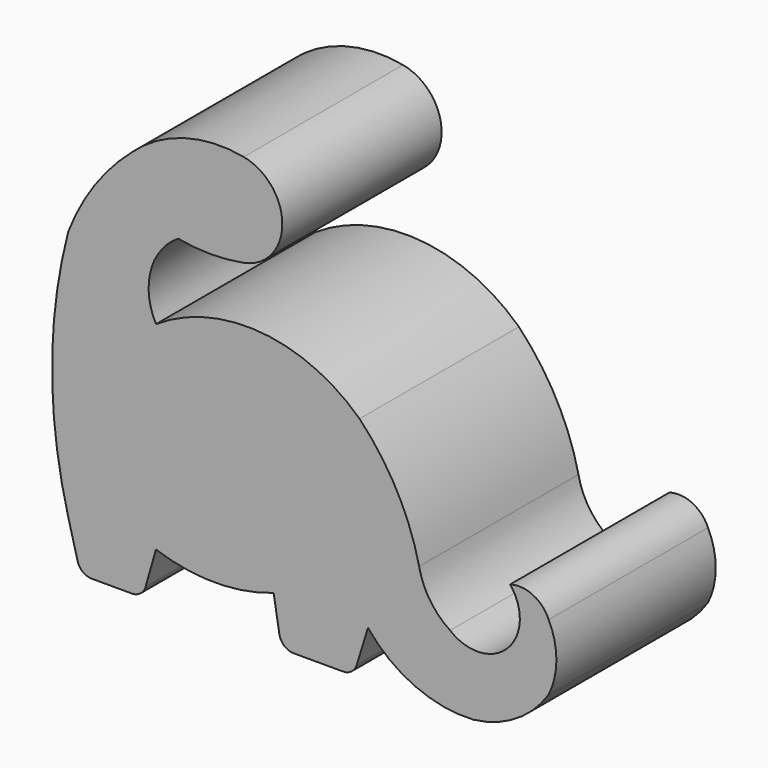
from build123d import *

# Parameters (mm, degrees)
F1_DEPTH = 27.94
F2_R     = 2.032


with BuildPart() as f1:
    # F0 (on Front) → F1 (new body)
    with BuildSketch(Plane.XZ):
        with BuildLine():
            ThreePointArc((37.374314, -11.278337), (36.993944, -19.30783), (28.964451, -19.6882))
            ThreePointArc((28.964451, -19.6882), (26.133187, -16.885717), (24.616137, -13.202169))
            ThreePointArc((24.616137, -13.202169), (21.502887, -4.867324), (16.258154, 2.3198))
            ThreePointArc((16.258154, 2.3198), (2.393106, 8.496354), (-12.306178, 4.712117))
            ThreePointArc((-12.306178, 4.712117), (-13.034985, 11.114911), (-9.191416, 16.287329))
            ThreePointArc((-9.191416, 16.287329), (-4.595708, 15.85712), (0, 16.287329))
            ThreePointArc((0, 16.287329), (5.42121, 22.828334), (0, 29.369339))
            ThreePointArc((0, 29.369339), (-8.338542, 28.986406), (-15.619431, 24.903933))
            ThreePointArc((-15.619431, 24.903933), (-20.90651, 19.079283), (-24.609497, 12.138993))
            ThreePointArc((-24.609497, 12.138993), (-26.879477, -5.487724), (-24.609497, -23.114441))
            Line((-24.609497, -23.114441), (-22.896376, -29.655447))
            Line((-22.896376, -29.655447), (-14.175041, -29.655447))
            Line((-14.175041, -29.655447), (-12.306178, -23.114441))
            ThreePointArc((-12.306178, -23.114441), (-4.052053, -24.512898), (4.202072, -23.114441))
            Line((4.202072, -23.114441), (5.29224, -29.655447))
            Line((5.29224, -29.655447), (15.415225, -29.655447))
            Line((15.415225, -29.655447), (17.439822, -23.114441))
            ThreePointArc((17.439822, -23.114441), (24.041818, -28.184444), (32.234952, -29.655447))
            ThreePointArc((32.234952, -29.655447), (38.237652, -27.555079), (42.790089, -23.114441))
            ThreePointArc((42.790089, -23.114441), (43.871905, -18.487056), (42.790089, -13.859671))
            ThreePointArc((42.790089, -13.859671), (40.576947, -11.531001), (37.374314, -11.278337))
        make_face()
    extrude(amount=F1_DEPTH)

    # F2
    f2_edges = [f1.edges().sort_by_distance(p)[0] for p in [
        (15.415225, -13.97, -29.655447),
        (5.29224, -13.97, -29.655447),
        (-14.175041, -13.97, -29.655447),
        (-22.896376, -13.97, -29.655447),
    ]]
    fillet(f2_edges, radius=F2_R)


solid = f1.part
